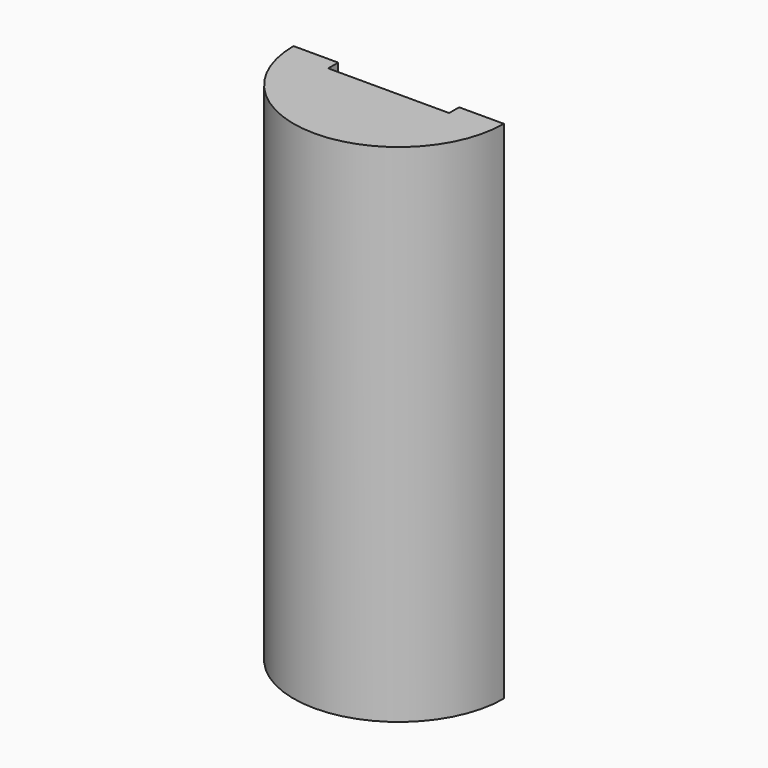
from build123d import *

# Parameters (mm, degrees)
F1_ANGLE = 180
F2_W     = 16.51
F2_H     = 2.667
F3_DEPTH = 25.4
F2_W_2   = 4.643438
F4_DEPTH = 19.05


with BuildPart() as f1:
    # F0 (on Front) → F1 (revolve)
    with BuildSketch(Plane.XZ):
        Polygon((16.073437, -3.344848), (16.073438, -98.594848), (22.423438, -98.594848), (22.423438, 9.355152), (0, 9.355152), (0, -16.044848), (12.501562, -16.044848), (12.501562, -3.344848), align=None)
    revolve(axis=Axis((0, 0, -3.344848), (0, 0, -1)), revolution_arc=F1_ANGLE)

    # F2 (on face) → F3 (cut, through all)
    with BuildSketch(Plane.XY.offset(9.355152)):
        with Locations((0, -1.3335)):
            Rectangle(F2_W, F2_H)
    extrude(amount=-F3_DEPTH, mode=Mode.SUBTRACT)

    # F2 (on face) → F4 (cut)
    with BuildSketch(Plane.XY.offset(9.355152)):
        with Locations((10.576719, -1.3335)):
            Rectangle(F2_W_2, F2_H)
        with Locations((-10.576719, -1.3335)):
            Rectangle(F2_W_2, F2_H)
    extrude(amount=-F4_DEPTH, mode=Mode.SUBTRACT)


solid = f1.part
